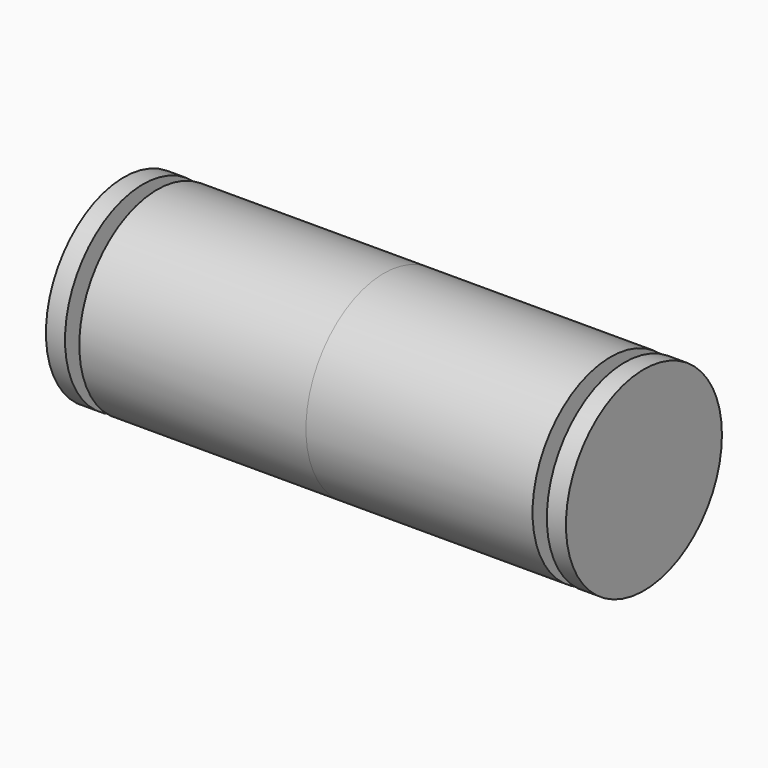
from build123d import *

# Parameters (mm, degrees)
F0_R     = 4.7625
F1_DEPTH = 12.7
F2_W     = 0.698456
F2_H     = 2.279171


with BuildPart() as f1:
    # F0 (on Right) → F1 (new body)
    with BuildSketch(Plane.YZ):
        Circle(F0_R)
    extrude(amount=F1_DEPTH)

    # F2 (on Top) → F3 (revolve, cut)
    with BuildSketch(Plane.XY):
        with Locations((11.419214, 4.052942)):
            Rectangle(F2_W, F2_H)
    revolve(axis=Axis((11.608969, 0, 0), (-1, 0, 0)), mode=Mode.SUBTRACT)

    # F4: F1 across plane


with BuildPart() as f1_1:
    add(f1.part)
    add(f1.part.mirror(Plane.YZ))


solid = f1_1.part
